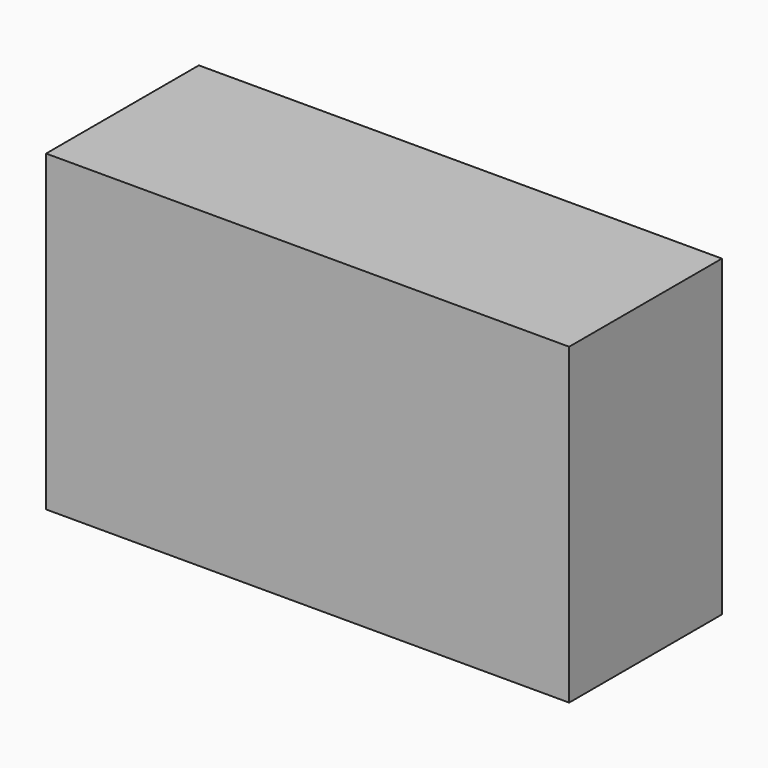
from build123d import *

# Parameters (mm, degrees)
F0_W           = 68.3668106794
F0_H           = 33.9986383915
F2_DEPTH       = 25.4
F3_D           = 6.35
F3_CBORE_D     = 7.62
F3_CBORE_DEPTH = 9.525
F5_D           = 19.05
F5_CBORE_D     = 25.4
F5_CBORE_DEPTH = 6.35
F8_R           = 3.595396078
F9_DEPTH       = 25.4
F7_W           = 42.4042865634
F7_H           = 15.4809802771


with BuildPart() as f2:
    # F0 (on Top) → F2 (new body)
    with BuildSketch(Plane.XY):
        with Locations((34.1834053397, -16.9993191957)):
            Rectangle(F0_W, F0_H)
    extrude(amount=-F2_DEPTH)

    # F3 (through all)
    with Locations(Plane.XY):
        with Locations((33.0153182149, -14.4990934059)):
            CounterBoreHole(F3_D / 2, F3_CBORE_D / 2, F3_CBORE_DEPTH)

    # F5 (through all)
    with Locations(Plane.XY):
        with Locations((33.0153182149, -14.4990934059)):
            CounterBoreHole(F5_D / 2, F5_CBORE_D / 2, F5_CBORE_DEPTH)


with BuildPart() as f9:
    # F8 (on face) → F9 (new body)
    with BuildSketch(Plane.XY):
        with Locations((21.7324774712, -7.0019960403)):
            Circle(F8_R)
    extrude(amount=-F9_DEPTH)


with BuildPart() as f9b:
    # F7 (on Top) → F9, piece 2 (new body)
    with BuildSketch(Plane.XY):
        with Locations((21.2021432817, -7.7404901385)):
            Rectangle(F7_W, F7_H)
    extrude(amount=-F9_DEPTH)


solid = Compound([f9.part, f9b.part])
